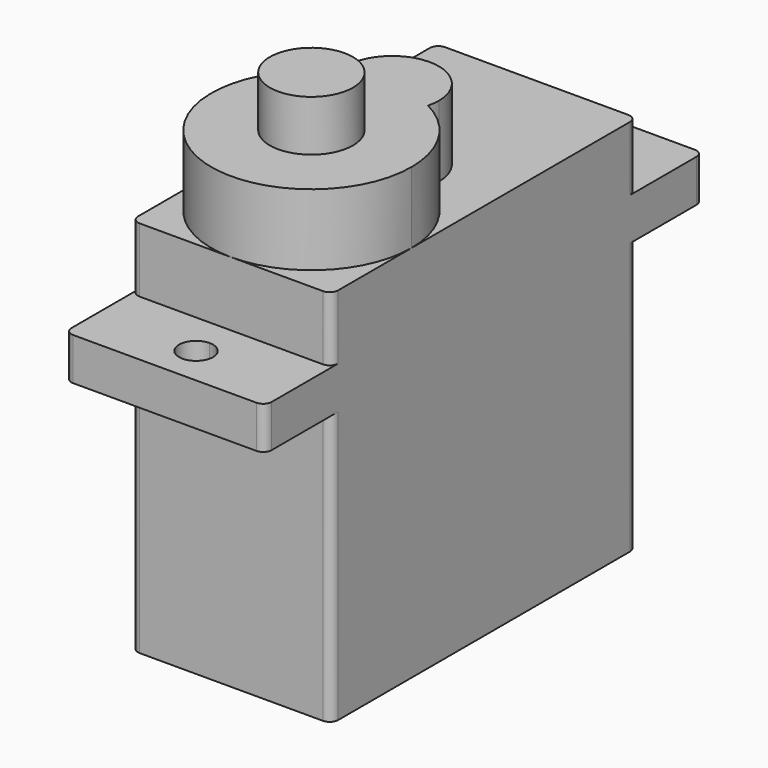
from build123d import *

# Parameters (mm, degrees)
F0_W     = 11.8
F0_H     = 22.5
F1_DEPTH = 22.3
F4_DEPTH = 2.5
F6_DEPTH = 4.2
F7_R     = 2.45
F8_DEPTH = 3
F9_R     = 0.5


with BuildPart() as f1:
    # F0 (on Top) → F1 (new body)
    with BuildSketch(Plane.XY):
        with Locations((5.9, 11.25)):
            Rectangle(F0_W, F0_H)
    extrude(amount=F1_DEPTH)

    # F3 (on offset) → F4 (join)
    with BuildSketch(Plane.XY.offset(16)):
        Polygon((11.8, 27.4), (0, 27.4), (0, 11.25), (0, -4.9), (11.8, -4.9), align=None)
        with BuildLine():
            ThreePointArc((6.9, -2.6), (5.1928932188, -3.3071067812), (5.9, -1.6))
            ThreePointArc((5.9, -1.6), (6.6071067812, -1.8928932188), (6.9, -2.6))
        make_face(mode=Mode.SUBTRACT)
        with BuildLine():
            ThreePointArc((6.9, 25.1), (6.6071067812, 24.3928932188), (5.9, 24.1))
            ThreePointArc((5.9, 24.1), (5.1928932188, 25.8071067812), (6.9, 25.1))
        make_face(mode=Mode.SUBTRACT)
    extrude(amount=F4_DEPTH)

    # F5 (on face) → F6 (join)
    with BuildSketch(Plane.XY.offset(22.3)):
        with BuildLine():
            ThreePointArc((3.2367553675, 11.1647058824), (2.8099468719, 0.8739108976), (11.8, 5.9))
            ThreePointArc((11.8, 5.9), (10.9260891024, 8.9900531281), (8.5632446325, 11.1647058824))
            ThreePointArc((8.5632446325, 11.1647058824), (5.9, 9.1), (3.2367553675, 11.1647058824))
        make_face()
        with BuildLine():
            ThreePointArc((3.2367553675, 11.1647058824), (5.9, 9.1), (8.5632446325, 11.1647058824))
            ThreePointArc((8.5632446325, 11.1647058824), (5.9, 11.8), (3.2367553675, 11.1647058824))
        make_face()
        with BuildLine():
            ThreePointArc((3.2367553675, 11.1647058824), (5.9, 11.8), (8.5632446325, 11.1647058824))
            ThreePointArc((8.5632446325, 11.1647058824), (8.6282249485, 11.5046181383), (8.65, 11.85))
            ThreePointArc((8.65, 11.85), (5.5546181383, 14.5782249485), (3.2367553675, 11.1647058824))
        make_face()
    extrude(amount=F6_DEPTH)

    # F7 (on face) → F8 (join)
    with BuildSketch(Plane.XY.offset(26.5)):
        with Locations((5.9, 5.9)):
            Circle(F7_R)
    extrude(amount=F8_DEPTH)

    # F9
    f9_edges = [f1.edges().sort_by_distance(p)[0] for p in [
        (11.8, 0, 8),
        (11.8, 0, 20.4),
        (0, 0, 8),
        (0, 0, 20.4),
        (0, 22.5, 20.4),
        (0, 22.5, 8),
        (11.8, 22.5, 8),
        (11.8, 22.5, 20.4),
        (0, -4.9, 17.25),
        (11.8, -4.9, 17.25),
        (11.8, 27.4, 17.25),
        (0, 27.4, 17.25),
    ]]
    fillet(f9_edges, radius=F9_R)


solid = f1.part
